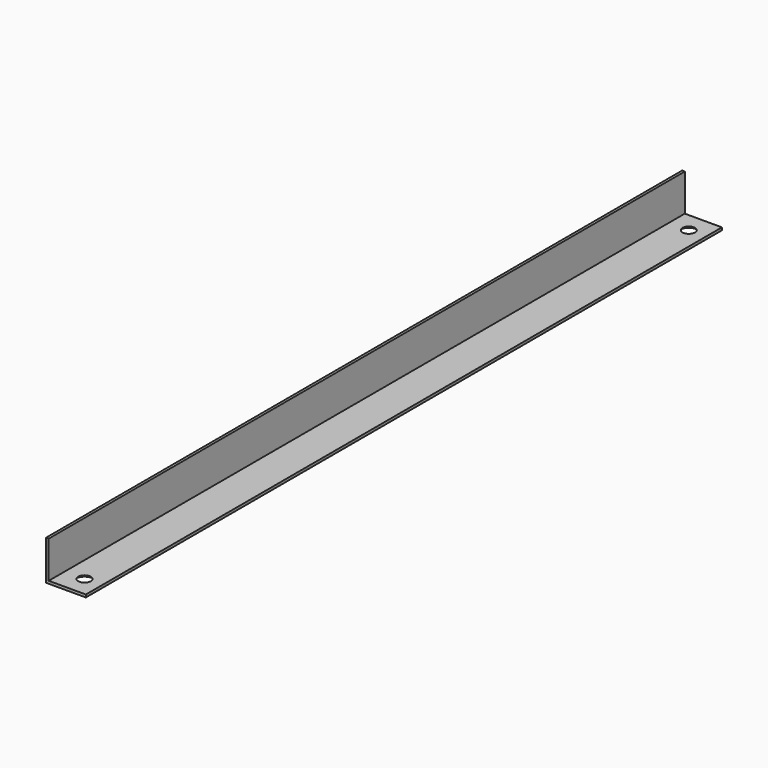
from build123d import *

# Parameters (mm, degrees)
F1_DEPTH       = 300
F3_D           = 2.5
F3_CSINK_D     = 6.72
F3_CSINK_ANGLE = 90


with BuildPart() as f1:
    # F0 (on Front) → F1 (new body)
    with BuildSketch(Plane.XZ):
        Polygon((-15.0295953322, 8.975268739), (-16.0295953322, 8.975268739), (-16.0295953322, -6.024731261), (-1.0295953322, -6.024731261), (-1.0295953322, -5.024731261), (-15.0295953322, -5.024731261), align=None)
    extrude(amount=F1_DEPTH)

    # F3 (through all)
    with Locations(Plane(origin=(0, 0, -6.024731261), x_dir=(1, 0, 0), z_dir=(0, 0, -1))):
        with Locations((-7.5295953322, 292.5), (-7.5295953322, 7.5)):
            CounterSinkHole(F3_D / 2, F3_CSINK_D / 2, counter_sink_angle=F3_CSINK_ANGLE)


solid = f1.part
